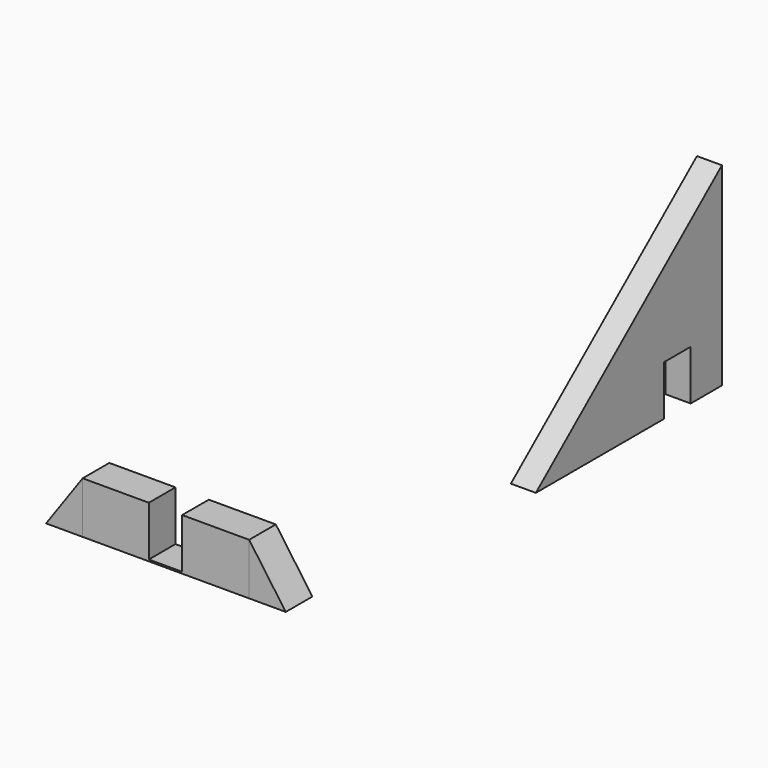
from build123d import *

# Parameters (mm, degrees)
F1_DEPTH = 3.81
F2_W     = 5.08
F2_H     = 7.62
F3_DEPTH = 25.4
F6_DEPTH = 5.08
F5_W     = 25.4
F5_H     = 7.874
F7_W     = 5.08
F7_H     = 7.62
F8_DEPTH = 25.4


with BuildPart() as f1:
    # F0 (on Right) → F1 (new body)
    with BuildSketch(Plane.YZ):
        Polygon((41.2011630833, 0), (41.2011630833, 29.5718032867), (5.7149999775, 0), align=None)
    extrude(amount=F1_DEPTH)

    # F2 (on face) → F3 (cut)
    with BuildSketch(Plane(origin=(0, 0, 0), x_dir=(0, -1, 0), z_dir=(-1, 0, 0))):
        with Locations((-32.703421793, 3.81)):
            Rectangle(F2_W, F2_H)
    extrude(amount=-F3_DEPTH, mode=Mode.SUBTRACT)


with BuildPart() as f6:
    # F4 (on Front) → F6 (new body)
    with BuildSketch(Plane.XZ):
        Polygon((-56.6846917487, -21.1986619979), (-56.6846917487, -13.3246619979), (-62.2669160366, -21.1986619979), align=None)
    extrude(amount=F6_DEPTH)


with BuildPart() as f6b:
    # F4 (on Front) → F6, piece 2 (new body)
    with BuildSketch(Plane.XZ):
        Polygon((-25.7024674609, -21.1986619979), (-31.2846917487, -13.3246619979), (-31.2846917487, -21.1986619979), align=None)
    extrude(amount=F6_DEPTH)


with BuildPart() as f6c:
    # F5 (on face) → F6, piece 3 (new body)
    with BuildSketch(Plane.XZ):
        with Locations((-43.9846917487, -17.2616619979)):
            Rectangle(F5_W, F5_H)
    extrude(amount=F6_DEPTH)

    # F7 (on face) → F8 (cut)
    with BuildSketch(Plane.XZ.offset(5.08)):
        with Locations((-44.0506187892, -17.1346619979)):
            Rectangle(F7_W, F7_H)
    extrude(amount=-F8_DEPTH, mode=Mode.SUBTRACT)


solid = Compound([f1.part, f6.part, f6b.part, f6c.part])
